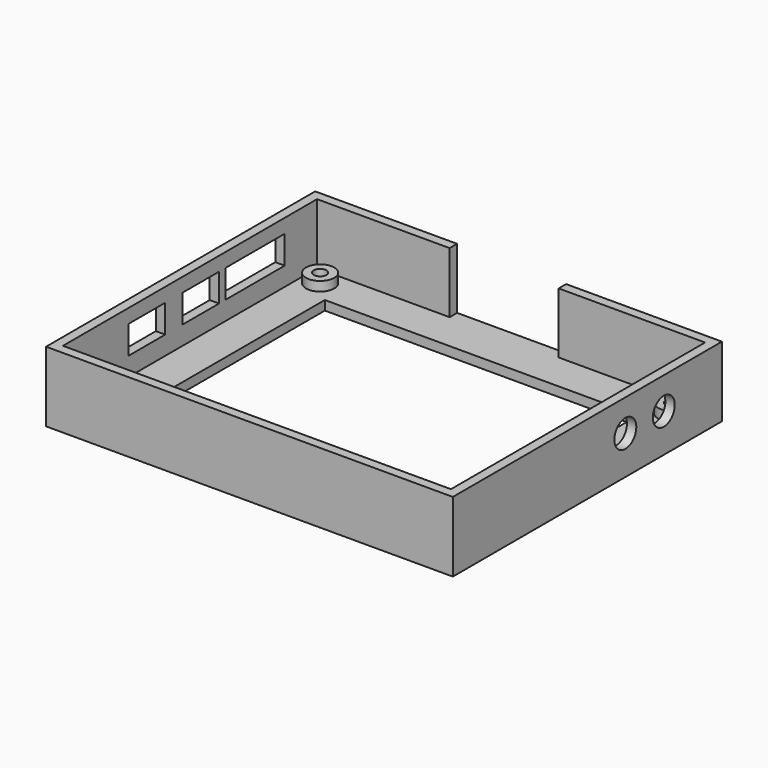
from build123d import *

# Parameters (mm, degrees)
SKETCH_W        = 82.95665
SKETCH_H        = 67.908462
SKETCH_R        = 1.357232
PAD_DEPTH       = 2
SKETCH001_R     = 3.013294
SKETCH001_R_2   = 1.357232
PAD001_DEPTH    = 2
SKETCH002_W     = 86.95665
SKETCH002_H     = 71.908462
SKETCH002_W_2   = 82.95665
SKETCH002_H_2   = 67.908462
PAD002_DEPTH    = 15
SKETCH003_W     = 23.303855
SKETCH003_H     = 2
POCKET_DEPTH    = 15
SKETCH004_W     = 9.816747
SKETCH004_H     = 53.650996
SKETCH004_W_2   = 9.816748
SKETCH004_W_3   = 15.848155
POCKET001_DEPTH = 6
SKETCH006_R     = 2.929585
POCKET002_DEPTH = 43.398659
SKETCH007_W     = 66.912369
SKETCH007_H     = 53.325719
POCKET003_DEPTH = 5


with BuildPart() as part:
    # Sketch → Pad (new body)
    with BuildSketch(Plane.XY):
        with Locations((-0.079666, 0.057701)):
            Rectangle(SKETCH_W, SKETCH_H)
        with Locations((-37.482224, -29.963587)):
            Circle(SKETCH_R, mode=Mode.SUBTRACT)
        with Locations((37.52877, -29.963587)):
            Circle(SKETCH_R, mode=Mode.SUBTRACT)
        with Locations((-37.754868, 30.081388)):
            Circle(SKETCH_R, mode=Mode.SUBTRACT)
        with Locations((37.458336, 30.081388)):
            Circle(SKETCH_R, mode=Mode.SUBTRACT)
    extrude(amount=PAD_DEPTH)

    # Sketch001 (on DatumPlane) → Pad001 (join)
    with BuildSketch(Plane.XY.offset(2)):
        with Locations((-37.754868, 30.081388)):
            Circle(SKETCH001_R)
        with Locations((-37.754868, 30.081388)):
            Circle(SKETCH001_R_2, mode=Mode.SUBTRACT)
        with Locations((37.458336, 30.081388)):
            Circle(SKETCH001_R)
        with Locations((37.458336, 30.081388)):
            Circle(SKETCH001_R_2, mode=Mode.SUBTRACT)
        with Locations((37.52877, -29.963587)):
            Circle(SKETCH001_R)
        with Locations((37.52877, -29.963587)):
            Circle(SKETCH001_R_2, mode=Mode.SUBTRACT)
        with Locations((-37.482224, -29.963587)):
            Circle(SKETCH001_R)
        with Locations((-37.482224, -29.963587)):
            Circle(SKETCH001_R_2, mode=Mode.SUBTRACT)
    extrude(amount=PAD001_DEPTH)

    # Sketch002 → Pad002 (join)
    with BuildSketch(Plane.XY):
        with Locations((-0.079666, 0.057701)):
            Rectangle(SKETCH002_W, SKETCH002_H)
        with Locations((-0.079666, 0.057701)):
            Rectangle(SKETCH002_W_2, SKETCH002_H_2, mode=Mode.SUBTRACT)
    extrude(amount=PAD002_DEPTH)

    # Sketch003 (on DatumPlane) → Pocket (cut)
    with BuildSketch(Plane.XY.offset(2)):
        with Locations((-1.558922, 35.011932)):
            Rectangle(SKETCH003_W, SKETCH003_H)
    extrude(amount=POCKET_DEPTH, mode=Mode.SUBTRACT)

    # Sketch004 (on DatumPlane) → Pocket001 (cut)
    with BuildSketch(Plane(origin=(37.458336, 30.081388, 6), x_dir=(0, 1, 0), z_dir=(0, 0, 1))):
        with Locations((-41.548102, 54.190829)):
            Rectangle(SKETCH004_W, SKETCH004_H)
        with Locations((-27.168644, 54.190829)):
            Rectangle(SKETCH004_W_2, SKETCH004_H)
        with Locations((-12.643048, 54.190829)):
            Rectangle(SKETCH004_W_3, SKETCH004_H)
    extrude(amount=POCKET001_DEPTH, mode=Mode.SUBTRACT)

    # Sketch006 → Pocket002 (cut)
    with BuildSketch(Plane.YZ):
        with Locations((10.200474, 8.212474)):
            Circle(SKETCH006_R)
        with Locations((20.473468, 8.212474)):
            Circle(SKETCH006_R)
    extrude(amount=POCKET002_DEPTH, mode=Mode.SUBTRACT)

    # Sketch007 → Pocket003 (cut)
    with BuildSketch(Plane.XY):
        with Locations((0.089973, -0.812508)):
            Rectangle(SKETCH007_W, SKETCH007_H)
    extrude(amount=POCKET003_DEPTH, mode=Mode.SUBTRACT)


solid = part.part
